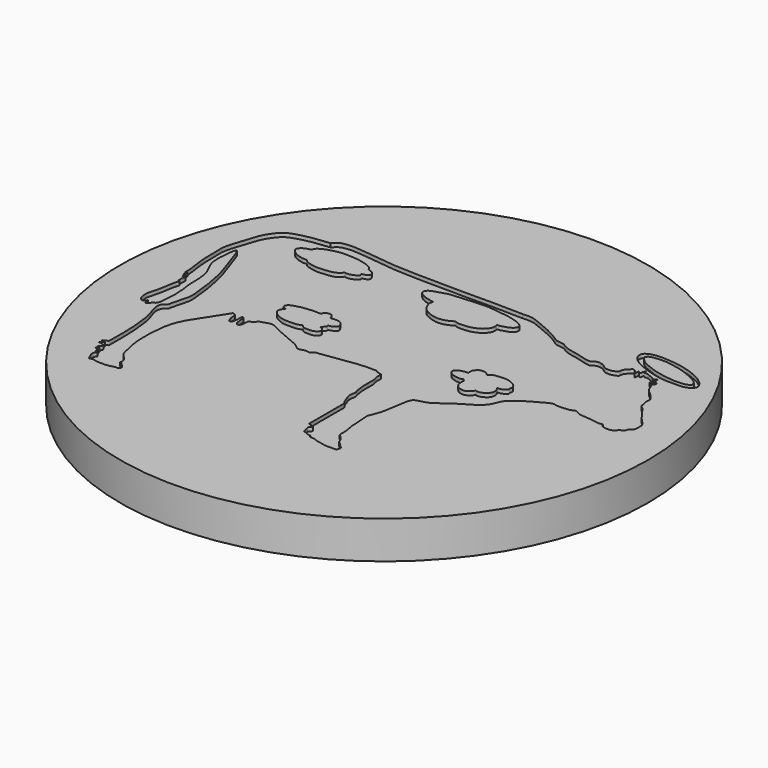
from build123d import *

# Parameters (mm, degrees)
F0_R     = 44.45
F1_DEPTH = 6.35
F3_DEPTH = 0.635


with BuildPart() as f1:
    # F0 (on Top) → F1 (new body)
    with BuildSketch(Plane.XY):
        Circle(F0_R)
    extrude(amount=F1_DEPTH)

    # F2 (on face) → F3 (cut)
    with BuildSketch(Plane.XY.offset(6.35)):
        with BuildLine():
            add(Edge.make_bspline(
                [(-26.75078623, 22.1524368972), (-26.6224431298, 22.285709196), (-26.3805275313, 22.5369159317), (-25.8716242693, 22.9678283726), (-25.2066042468, 23.1177724455), (-24.1643317162, 23.2846892412), (-22.7953954916, 23.1622963556), (-21.6395636718, 23.0872152412), (-19.8312557034, 22.8341203775), (-17.0090075275, 22.5074117402), (-14.2501567836, 22.3090590956), (-10.8820057298, 22.2936694122), (-7.8374378615, 22.1973719495), (-4.456371024, 22.2132592552), (-0.733909429, 22.2583006161), (4.9456537996, 22.2525237557), (5.6172846816, 22.1626982093)],
                knots=[0, 0, 0, 0, 0.0363374701, 0.0757852573, 0.1160920762, 0.1669487129, 0.2248217195, 0.2778380573, 0.344103086, 0.427579604, 0.5108890772, 0.6012834074, 0.6881672636, 0.7763751003, 0.8796210752, 1, 1, 1, 1], degree=3))
            add(Edge.make_bspline(
                [(-27.9328916222, -7.0819151588), (-28.0230149544, -7.3122666392), (-28.2000639202, -7.7647964154), (-28.5242334296, -8.3938183176), (-28.6763586609, -9.0075737953), (-28.962094489, -9.9914788576), (-29.0361880349, -10.9626897077), (-29.1813886252, -12.1580574928), (-29.2401455487, -13.314352501), (-29.2249480765, -14.7983832194), (-29.1066828937, -16.1420213656), (-28.8776293103, -17.3767894044), (-28.578777635, -18.5541061229), (-28.364130106, -19.5200614382), (-27.7686402305, -20.030153856), (-27.440431878, -20.5319903653), (-27.0848076912, -20.8789951556), (-27.0620114914, -21.4303279696), (-27.2608194571, -21.6014103608), (-26.8378391536, -21.6932748161), (-26.5741932569, -22.0234431303), (-26.3111419933, -22.3278000136), (-25.9761913259, -22.5601674613), (-26.1722899443, -22.9534159372), (-26.3786671512, -23.1137766986), (-26.7369501955, -23.0404346837), (-27.1236133862, -23.1962985503), (-27.964652526, -23.3675820035), (-28.7062846298, -23.3760594636), (-29.7630603654, -23.4000847572), (-30.1853368958, -23.156570864), (-30.7353659248, -23.1710524839), (-31.10303477, -23.4047584776), (-31.2930898931, -22.7181189104), (-31.6062871826, -22.2592312947), (-31.5790115008, -21.7097970262), (-31.4545340684, -21.3893932734), (-31.2382177314, -21.3633628184), (-31.2827611377, -21.2168062822), (-31.4271111945, -21.2797372837), (-31.7814897776, -21.1866918297), (-31.6201266661, -20.9630560182), (-31.5872192222, -20.8564851551), (-31.5814664559, -20.6420161433), (-31.7532035349, -20.5690503573), (-31.7935252278, -20.3595381151), (-32.0203313648, -20.5195411521), (-32.2229200506, -20.4821522703), (-32.3443702582, -20.4759542247), (-32.1661497878, -20.312618488), (-32.0292364046, -20.2916884357), (-31.8038934065, -20.077229671), (-32.0141314277, -20.0514015027), (-32.1784324543, -20.0652918101), (-32.3272774958, -20.0396699078), (-32.4901663684, -20.1151158243), (-32.3517727768, -19.9264693536), (-32.1392023817, -19.7836239382), (-32.0087382152, -19.5488097522), (-31.7731206055, -19.1439214119), (-32.1427027239, -19.0632430796), (-32.48354636, -18.9720994939), (-32.7846108755, -18.8536414493), (-33.1325936127, -18.933078138), (-32.7248642128, -18.6738564888), (-32.5658487371, -18.6379726524), (-32.4075241914, -18.5029952571), (-32.1543018947, -18.3876310927), (-32.7506293489, -18.3541004893), (-32.867886744, -18.3543784235), (-32.9708627213, -18.1130524644), (-32.6557377493, -18.2022126366), (-32.4992560296, -18.0212891695), (-32.4066523179, -17.8443986509), (-32.0551401772, -17.9704797168), (-32.1137973909, -17.2395370392), (-32.1008542253, -16.5386831901), (-32.075460991, -15.8013728458), (-32.0643527582, -14.8925221266), (-32.1366772118, -14.0020522755), (-32.1010193077, -13.1854290827), (-32.1735551146, -12.2334744087), (-32.2649393375, -11.5365375345), (-32.3662781009, -10.513202111), (-32.4667830368, -9.409238614), (-32.8241345608, -8.0793240396), (-33.2172846897, -7.139222728), (-33.3774752111, -6.1771830747), (-33.3449456443, -5.7611366882), (-33.1125894596, -5.1699699627), (-32.4395081672, -4.783802441), (-32.4820705586, -4.4678678652), (-32.2074940303, -3.5468864195), (-31.9506902868, -2.5476479139), (-31.6563195169, -1.5101600794), (-31.645938625, -0.4404008982), (-31.7412131444, 0.4949912018), (-32.0405902277, 3.1041069273), (-32.416603865, 5.0637019768), (-32.88933973, 7.0535050142), (-33.1225517756, 7.5301311382), (-34.0930926756, 10.5667852188), (-35.0159674138, 13.2341694183), (-35.3328234846, 12.4121712026), (-35.4254537194, 11.5326709609), (-35.5668812388, 10.4312209821), (-35.5845495888, 8.7654630252), (-35.3725422909, 7.7215034944), (-34.7435527085, 6.4317802551), (-34.3341514029, 5.6965917587), (-34.0850318723, 4.6845745867), (-33.94272048, 3.5781193745), (-33.9325220674, 2.4701464309), (-33.9454296205, 1.3491529714), (-33.7470689553, 0.3862914073), (-33.6359720646, -0.6338827257), (-33.5568605668, -2.3299932888), (-33.681530671, -3.5742562578), (-33.764510483, -4.9812817195), (-33.9541461856, -5.2700817058), (-34.1335283235, -5.594683141), (-34.4721677094, -5.4710934402), (-34.5949571869, -5.893709415), (-34.7160123681, -6.1645294643), (-35.1531275888, -6.395779821), (-35.2521965041, -6.0447084103), (-35.3999669612, -5.7229601915), (-35.3286684135, -5.2947963381), (-35.5544969037, -6.0159481623), (-35.9781874449, -6.0170422346), (-36.3747736933, -5.8055854255), (-36.5769666672, -5.4384989919), (-36.6669832328, -4.7282179478), (-36.7161367524, -3.9279225809), (-36.3433509098, -2.8578664753), (-36.0726723024, -1.6297213235), (-35.9002863021, -0.5731594868), (-35.7840625799, 0.5798988216), (-35.3687554948, 1.4563801233), (-35.7458988138, 1.2685525418), (-35.7310435687, 1.6617226368), (-35.7830747566, 1.8968035736), (-35.5285576459, 3.1697458821), (-36.1012318337, 2.4615253143), (-36.0723954533, 2.9218194746), (-35.931438634, 3.4110333315), (-36.3960952834, 2.8155603207), (-36.2895150574, 3.5120145482), (-36.1808913897, 4.0981736577), (-36.5520143588, 3.3551063547), (-36.4755929732, 4.4551528052), (-36.6313581432, 5.5220460293), (-36.7689434605, 6.637441778), (-37.0013861825, 8.2153914606), (-36.9231262997, 10.2171210518), (-37.1179425509, 11.9955786353), (-36.7676392509, 13.6084207419), (-36.1056626291, 15.5444386489), (-35.4407010331, 18.0230833806), (-34.093110584, 20.0282553609), (-33.0307679017, 20.9370335819), (-30.9356040955, 21.5784842968), (-28.9010964789, 21.9280488017), (-27.4692816012, 22.0774608289), (-26.75078623, 22.1524368972)],
                knots=[0, 0, 0, 0, 0.0066099956, 0.0129854596, 0.0191032689, 0.0267924702, 0.0344730216, 0.0428203628, 0.0511510828, 0.0604913712, 0.0694570473, 0.0780633757, 0.0865757702, 0.0941045445, 0.1007597762, 0.1066674397, 0.1120686344, 0.1175365558, 0.1205532764, 0.1248781063, 0.1299974637, 0.1349490989, 0.139460147, 0.1441015582, 0.1479207796, 0.1522933659, 0.1572567164, 0.1642575929, 0.1711559104, 0.1788887115, 0.1842486626, 0.1898247001, 0.1941001563, 0.1999029069, 0.205844896, 0.211418873, 0.2157437142, 0.2188476266, 0.2210673188, 0.2239595068, 0.2280392199, 0.2314061953, 0.2341553086, 0.2374448266, 0.2406291177, 0.2435645887, 0.2470967091, 0.2507222803, 0.2526662194, 0.2558505105, 0.2591197907, 0.2626838664, 0.2654329987, 0.2687124269, 0.2718043212, 0.274272757, 0.277208228, 0.2812178044, 0.285369202, 0.2900106171, 0.2940146359, 0.2987394575, 0.3033077428, 0.3065872045, 0.3109339428, 0.3143645735, 0.3179597787, 0.3207259241, 0.3258769051, 0.3288263957, 0.3317758914, 0.33540893, 0.3391000998, 0.342284391, 0.3459173994, 0.3517183151, 0.3584569303, 0.3650170685, 0.3723501229, 0.3796049813, 0.3866045371, 0.3940264882, 0.4005146481, 0.4081865158, 0.4163986478, 0.4253588687, 0.4332989104, 0.4406936788, 0.4456113007, 0.451639863, 0.4580804412, 0.4620732971, 0.4694351498, 0.4774570625, 0.4854427687, 0.4931755739, 0.500683344, 0.5129393627, 0.5244648757, 0.5349372668, 0.5406036519, 0.5547346481, 0.5663405985, 0.571185955, 0.5785842151, 0.5868264768, 0.5966410955, 0.6047420531, 0.6137796725, 0.6208959858, 0.6286055248, 0.6367570389, 0.6448767328, 0.6529964259, 0.6605067249, 0.668330556, 0.6782338339, 0.6872491281, 0.6960919324, 0.7006107531, 0.7048491747, 0.7087610871, 0.7133627031, 0.7178020675, 0.7224892228, 0.7264820701, 0.7314425061, 0.7348819283, 0.7402418694, 0.744990204, 0.7499853753, 0.7548307155, 0.7612430556, 0.768121892, 0.7762707698, 0.7849082848, 0.7928672207, 0.8015606983, 0.8078986376, 0.8110829176, 0.8150301293, 0.8197172668, 0.8268395149, 0.831533561, 0.8356546925, 0.8399751121, 0.8443646782, 0.8497246249, 0.8544186787, 0.8588082511, 0.8650544779, 0.8735973861, 0.8816454488, 0.8913148985, 0.9022692508, 0.9125079479, 0.9222275493, 0.9331943724, 0.9456569936, 0.9574169571, 0.9663890671, 0.9775439705, 0.9887313971, 1, 1, 1, 1], degree=3))
            Line((-27.9328916222, -7.0819151588), (-24.5950780809, -1.8700635992))
            add(Edge.make_bspline(
                [(2.0201816224, -5.9220227413), (2.0146719422, -5.7044925996), (2.0038151964, -5.2758525695), (2.0886378385, -4.641696165), (1.7024259378, -3.885999175), (1.9531840344, -2.7933060423), (1.4372168229, -2.8472457173), (0.8942094022, -2.6320343057), (0.7297338348, -2.3519033197), (-0.3887278231, -2.4778904777), (-0.8412432821, -2.3999873181), (-1.4763446002, -2.463217694), (-1.8993522225, -2.5128656099), (-2.6500703906, -2.5200219647), (-3.3386682659, -2.6938208597), (-4.76469726, -2.8234341345), (-6.3154013713, -3.1245247262), (-7.380248347, -3.1608536381), (-8.4993997252, -3.4520845046), (-8.8883277106, -3.3394001537), (-9.15684534, -3.5667697985), (-9.3118579998, -3.8979433174), (-9.9035613466, -3.8532090994), (-10.2463092317, -3.7480326912), (-10.7954044652, -3.9840596233), (-11.3895096661, -4.1021842922), (-11.9041262713, -3.5950768423), (-12.3734758616, -3.275270885), (-12.9943317558, -2.982561191), (-14.0695612937, -2.4787994363), (-15.0951670234, -2.0485566762), (-16.755907237, -1.4561504938), (-17.7734182044, -0.7097439921), (-18.5444946037, -0.6461127854), (-19.153195211, -0.8423846145), (-19.5807587626, -1.0392655579), (-20.2455141024, -1.1445221618), (-20.3395204981, -1.4342343063), (-20.5622715456, -1.6767603553), (-20.8945666352, -1.8107127986), (-21.0919929708, -2.0156631151), (-21.3247618814, -2.0090878291), (-21.2820536141, -2.354643624), (-21.3235134529, -2.6808729556), (-21.3559466446, -3.1196819229), (-21.4326684174, -3.3813329954), (-21.6181834504, -3.5632877728), (-21.9817845119, -3.5828926346), (-22.18585359, -3.2632168693), (-22.2451094316, -2.7721511994), (-22.3498589409, -2.2310667306), (-22.3525350721, -1.4591939887), (-22.558083485, -1.5378610414), (-22.689423355, -1.490304705), (-22.7096722855, -1.6638715796), (-22.7203512176, -1.9487798348), (-22.7162756535, -2.4625894099), (-22.7759922892, -2.816264318), (-22.8333058984, -3.1378683136), (-22.911792767, -3.487736638), (-23.3202479341, -3.5159124084), (-23.4513534784, -3.2690342225), (-23.657126888, -2.7508463764), (-23.7483242635, -2.2003007985), (-23.6582129912, -1.6691280292), (-23.9631568487, -1.5531849826), (-24.1273252113, -1.4383951649), (-24.350467741, -1.3990863197), (-24.5000602152, -1.6871144404), (-24.5950780809, -1.8700635992)],
                knots=[0, 0, 0, 0, 0.0168199292, 0.0331434297, 0.0527228918, 0.0727174829, 0.085262908, 0.1009925199, 0.1123104912, 0.1335937302, 0.1487956994, 0.1648638822, 0.1788712861, 0.1965170567, 0.2142765841, 0.2393135555, 0.2657887909, 0.2879563769, 0.3100071795, 0.3226513102, 0.3341937602, 0.3462181764, 0.3614201456, 0.374103138, 0.3899181978, 0.4057082647, 0.4228324315, 0.4386074584, 0.4558674548, 0.4784213203, 0.5009975035, 0.5288351545, 0.5523054759, 0.5700896011, 0.586417638, 0.6012679523, 0.6177036515, 0.6285413395, 0.6402981494, 0.6528887734, 0.6639152049, 0.6724918762, 0.6835338803, 0.6961349854, 0.7099658672, 0.7207780989, 0.7310166981, 0.7427347096, 0.7548521472, 0.7693523382, 0.7859986487, 0.8028234633, 0.8104610828, 0.8173552992, 0.8247807584, 0.8362757858, 0.8513473844, 0.8639900942, 0.8760323882, 0.8878403485, 0.8995971344, 0.9100314376, 0.925597527, 0.9417655876, 0.9561265604, 0.9669552901, 0.9764305494, 0.9850292008, 1, 1, 1, 1], degree=3))
            add(Edge.make_bspline(
                [(3.1747252215, -12.7973137423), (3.1989783319, -12.6282837831), (3.2470609582, -12.293176071), (2.8449408861, -12.0020788323), (2.6011251276, -11.1275374567), (2.3592621247, -10.6535882974), (2.2032439989, -9.7990125813), (2.4956457559, -9.0419695086), (2.2135212721, -8.5559059796), (2.0874583419, -7.5629044685), (2.003280115, -6.7989022767), (2.0144704947, -6.2183259556), (2.0201816224, -5.9220227413)],
                knots=[0, 0, 0, 0, 0.0816108876, 0.1617963937, 0.273490057, 0.3633051935, 0.472670338, 0.5768548459, 0.6635794588, 0.781834045, 0.8886567168, 1, 1, 1, 1], degree=3))
            Line((3.1747252215, -12.7973137423), (3.1747252215, -19.8022369295))
            add(Edge.make_bspline(
                [(5.4422146641, -22.2721826285), (5.3152530086, -22.2883538459), (5.0451058038, -22.3227627321), (4.6274780837, -22.0534553421), (4.2808965638, -21.9500820491), (4.0378940423, -21.98765402), (3.9116759293, -21.4531773526), (3.8554600094, -21.0944164811), (3.627525089, -20.6976762194), (3.8544255549, -20.4824046775), (4.1725815863, -20.156956031), (4.0245691951, -20.0305319618), (3.7552580499, -20.1207942834), (3.6563528665, -19.8996588381), (3.4371659835, -19.8055058993), (3.2644175983, -19.8033541404), (3.1747252215, -19.8022369295)],
                knots=[0, 0, 0, 0, 0.0800259591, 0.1702780976, 0.2475615746, 0.3033069419, 0.3921348004, 0.4754936408, 0.5554640657, 0.625186059, 0.7072909588, 0.7509568443, 0.8145550373, 0.87231942, 0.9337071969, 1, 1, 1, 1], degree=3))
            Line((5.4422146641, -22.2721826285), (5.6244242005, -22.6568449289))
            Line((5.6244242005, -22.6568449289), (6.4342417754, -22.6568449289))
            add(Edge.make_bspline(
                [(10.6048034504, -23.2844538987), (10.417509027, -23.2852914567), (10.0059820133, -23.2871317557), (9.1179890023, -23.272652524), (8.6422126223, -23.3198261076), (7.861816621, -23.1058272147), (7.0178779398, -22.9592835335), (6.6186129523, -22.7523855496), (6.4342417754, -22.6568449289)],
                knots=[0, 0, 0, 0, 0.1548403056, 0.3402181838, 0.47871159, 0.6548782397, 0.8406308915, 1, 1, 1, 1], degree=3))
            Line((10.6048034504, -23.2844538987), (10.7870129868, -22.5353725255))
            Line((10.7870129868, -22.5353725255), (9.4710588455, -21.3004015386))
            add(Edge.make_bspline(
                [(7.9728951678, -16.3605120033), (7.9650046248, -16.4732085207), (7.9461564126, -16.742407724), (8.1335062525, -17.4185263836), (8.2423001208, -18.2004641568), (8.3013167718, -18.7775633597), (8.2202128918, -19.7800623671), (8.5528584215, -19.8548932701), (8.9831791498, -20.3461781059), (9.3925464914, -20.9504699482), (9.4485205007, -21.1999475537), (9.4710588455, -21.3004015386)],
                knots=[0, 0, 0, 0, 0.0883435984, 0.2110271624, 0.3401801935, 0.4580866349, 0.5962809008, 0.6707969593, 0.7882710479, 0.9147457868, 1, 1, 1, 1], degree=3))
            Line((7.9728951678, -16.3605120033), (7.7546117827, -13.244134374))
            add(Edge.make_bspline(
                [(5.6172846816, 22.1626982093), (5.9355958554, 22.1774112196), (7.1987582171, 22.3190930362), (8.9813238253, 21.4875628199), (10.7574487786, 20.8028703403), (12.8408001777, 19.7638746998), (13.7494983248, 18.9384935763), (15.1200582409, 18.9672019079), (15.5829954688, 18.5496016115), (16.7906906784, 17.9934520586), (18.3993078024, 17.8404157708), (20.8159346048, 16.961411365), (21.2078131595, 17.4569465099), (21.8125173523, 17.7478036812), (22.6495819726, 17.6160634639), (23.1761715553, 17.3057412256), (23.612839524, 16.8641484868), (24.5302046437, 16.8014618626), (25.2515601856, 17.0088471571), (25.8049777844, 17.2856604502), (25.704052205, 17.7433148785), (26.0199125377, 18.3290567125), (26.529533286, 18.749314607), (26.8153926902, 19.0981959143), (27.4354184876, 18.6491206694), (27.7028288757, 17.7548173001), (27.6595863759, 19.2962721976), (27.9440924716, 18.4931599603), (28.3499901347, 18.8794283652), (28.167575554, 19.0188600036), (28.2893998521, 19.2811837355), (28.602591164, 19.7577871052), (28.3781078883, 18.9349894915), (28.9600602833, 19.2094763007), (29.5519324952, 18.9109279837), (30.350105001, 18.6156167176), (30.5617992998, 18.2378309226), (30.855699372, 18.5477540561), (31.1368541862, 18.7185202786), (31.2902742786, 18.2951662708), (30.8905707428, 17.824581934), (30.7736574417, 17.519418348), (30.9341070658, 17.1450721235), (31.0280776285, 17.6476098054), (31.2945941067, 17.691429274), (31.608682685, 17.8954864715), (31.7568433595, 17.6158706064), (31.787263013, 17.2802753287), (31.0169459404, 17.0606253331), (31.671256934, 16.7641264946), (31.7645918126, 16.1189295601), (32.3476216042, 15.2340671827), (32.7951399254, 15.0558222347), (33.8824091966, 13.8372948901), (33.9186327012, 13.4429447834), (33.8197318989, 12.7060718285), (34.1735920352, 11.8565797643), (33.9727632408, 11.5174487483), (34.816810295, 10.9848531535), (35.1173056192, 10.3906013374), (35.8231506194, 9.5776812664), (36.3043132065, 8.7259073552), (37.2230528936, 7.9223047098), (37.7201168578, 7.1794584805), (37.614135484, 6.88732399), (37.7879880441, 5.7557507954), (37.2112266094, 5.2136057951), (36.9663592196, 5.4006132141), (36.9216752242, 4.5634577199), (36.4881932756, 4.4073189321), (35.9849401891, 4.3962459538), (36.1100483351, 4.0211223659), (35.392518302, 3.5673784614), (34.4834966547, 3.5196164192), (34.108177991, 3.6610946354), (33.6568376921, 3.7716770973), (33.4700536712, 4.3917195138), (32.947563421, 4.026877908), (32.1228165191, 4.2702870225), (30.948417921, 4.3825424193), (30.3509528436, 4.4322686835), (29.1092660129, 4.4859535795), (28.2224674592, 5.1988794443), (27.6513952047, 4.6462990471), (26.4809317324, 4.6324083289), (25.3810790693, 4.5534025941), (24.6880479037, 4.8411549013), (23.5514596629, 4.2732258149), (22.2801188265, 3.5529426931), (21.1392256521, 2.8987940169), (19.8018233066, 1.7466039139), (18.9522778843, 1.2125239013), (18.4658609766, -0.5993278778), (17.3533753176, -1.6406898794), (16.0025534063, -2.4858956105), (14.3721627491, -3.405628092), (13.9060409656, -3.7918428157), (12.7130537163, -4.6424578548), (12.0491751939, -5.2079302815), (10.6080203344, -5.6658253031), (9.3813179633, -5.8753511095), (9.1640636898, -7.5925918021), (8.8340374479, -9.0619818516), (8.6700236348, -10.7531110892), (8.3014070987, -11.8941365509), (7.9416163343, -12.7824337519), (7.7546117827, -13.244134374)],
                knots=[0, 0, 0, 0, 0.0132357372, 0.028649312, 0.0440668863, 0.060599933, 0.0727375183, 0.0848189435, 0.0933181618, 0.105342654, 0.1201155409, 0.13696483, 0.1446690911, 0.1533262487, 0.1632601772, 0.1717593725, 0.1801481898, 0.190366342, 0.2001172734, 0.2080140737, 0.2148316752, 0.2236263992, 0.2326558435, 0.2391035636, 0.2484028448, 0.2557776604, 0.2654192306, 0.2718040243, 0.27825173, 0.2825214988, 0.2885598522, 0.294635604, 0.3018387988, 0.3086300432, 0.3177919869, 0.3279472562, 0.3340230195, 0.3404707107, 0.3460426086, 0.3520809736, 0.360580192, 0.3670586622, 0.3721362919, 0.3783551008, 0.3841530657, 0.3901914133, 0.3955603572, 0.4014821546, 0.4093789315, 0.4163731113, 0.4254584639, 0.4362628444, 0.4443704063, 0.4579296088, 0.4648245467, 0.4741238352, 0.484434191, 0.4903155717, 0.5004148329, 0.5097141261, 0.520821722, 0.5317745394, 0.5440581646, 0.5538536086, 0.5597349893, 0.5712555315, 0.580062431, 0.5842211885, 0.5930763575, 0.6004511831, 0.6073461083, 0.6127679578, 0.622315452, 0.632810308, 0.639705265, 0.6468861022, 0.6544789458, 0.6617694525, 0.6719876044, 0.683796057, 0.6924660005, 0.7045474222, 0.71544931, 0.7241064676, 0.7359149108, 0.7474300115, 0.7564594611, 0.7683920942, 0.7817362387, 0.7945098101, 0.8088377395, 0.8197138727, 0.8341700246, 0.8475697763, 0.8617075174, 0.8763551076, 0.8852102788, 0.8980510806, 0.9086311716, 0.9219296227, 0.9334064431, 0.9468440232, 0.9607496933, 0.9748252791, 0.9868305975, 1, 1, 1, 1], degree=3))
        make_face()
        with BuildLine():
            add(Edge.make_bspline(
                [(-19.2805100232, 5.2201403305), (-19.0487716136, 5.2868388076), (-18.5516320002, 5.4454565681), (-17.6452203627, 5.5912309901), (-16.8642425514, 5.6417064291), (-16.0458047033, 5.7279637606), (-15.0258485992, 5.5696789105), (-15.1081892826, 5.8393032074), (-15.0703507672, 5.9950007989), (-14.9411685975, 6.1292962296), (-14.7389318027, 6.2759895974), (-14.4965368572, 6.3277664614), (-14.2263507295, 6.379066071), (-13.9627879111, 6.3231140206), (-13.7739734761, 6.1999824546), (-13.5990072665, 5.989684377), (-13.4988609663, 5.7623565451), (-13.4666040602, 5.4601617229), (-13.0669352621, 5.519180324), (-12.4905354429, 5.5630267687), (-11.8859186366, 5.4983629565), (-11.517354436, 5.2638185627), (-11.277711844, 4.9832198669), (-11.316438814, 4.7643280746), (-11.1238746059, 4.6345306136), (-11.0564212027, 4.4528708166), (-11.0976952508, 4.1943405608), (-11.372062684, 3.9381798241), (-11.66607229, 3.8334770205), (-11.9141959019, 3.6549288426), (-12.4363462662, 3.6524427827), (-12.2873020286, 3.478714158), (-12.3303351757, 3.2737882156), (-12.4556365062, 3.0606939634), (-13.0899333133, 2.6169204556), (-12.6454554987, 2.6275982775), (-12.337144007, 2.4105449933), (-12.1645925164, 2.1519988791), (-12.106564514, 1.842834825), (-12.2016230849, 1.5627717964), (-12.6842465341, 1.2388270518), (-13.115011702, 1.0995587385), (-13.8088725495, 1.1491895802), (-14.1587769847, 1.1088204082), (-14.703175623, 1.2351696423), (-14.9109827353, 1.6543101279), (-15.2096952708, 1.5146736001), (-15.7315643229, 1.3097567851), (-16.1820763168, 1.2786615504), (-16.9001732854, 1.2985150482), (-17.6567777993, 1.2504091542), (-18.6165941498, 1.4462115432), (-19.5625721984, 1.9319258509), (-20.0913255919, 2.4693231572), (-20.1861951658, 2.9964193863), (-20.0512591767, 3.4473744527), (-19.5740591118, 3.8248779638), (-19.8730428619, 3.8900012882), (-20.2203578041, 4.0547972304), (-20.368513091, 4.4610896921), (-20.2100948236, 4.744326466), (-19.8668027858, 5.0624789402), (-19.4887702603, 5.1601992932), (-19.2805100232, 5.2201403305)],
                knots=[0, 0, 0, 0, 0.0225632622, 0.0473231561, 0.0700210443, 0.0948449729, 0.118723611, 0.1288855851, 0.1391392664, 0.1501494337, 0.1629739426, 0.1758596564, 0.1894199236, 0.20262767, 0.214821407, 0.2281680434, 0.2413474772, 0.2539505144, 0.2686804853, 0.2889577989, 0.309037258, 0.3261080372, 0.3412102057, 0.3525017215, 0.3642200785, 0.3753026211, 0.3880806274, 0.4036341169, 0.4179168783, 0.4329044755, 0.4492878073, 0.4583993865, 0.4696225302, 0.483629615, 0.5030995795, 0.5155538172, 0.5318627109, 0.5462009372, 0.5602316218, 0.5738048913, 0.5929681514, 0.6108883618, 0.6319774029, 0.6478167027, 0.6665201664, 0.6825837451, 0.6957914898, 0.7151593347, 0.7327603796, 0.7543834274, 0.7770367009, 0.8025927056, 0.8294099035, 0.8514119617, 0.8694828042, 0.8876030142, 0.9051561897, 0.9159917458, 0.9323006281, 0.948309008, 0.962421373, 0.9797226953, 1, 1, 1, 1], degree=3))
        make_face(mode=Mode.SUBTRACT)
        with BuildLine():
            add(Edge.make_bspline(
                [(-27.5301411748, 19.1654618829), (-27.4510155876, 19.2410788773), (-27.4734938165, 19.5269149877), (-26.9478270594, 19.9778947423), (-26.2451161059, 20.3209108723), (-25.4590632263, 20.5729636007), (-24.1619999389, 20.9052601873), (-23.0782607867, 20.900619165), (-21.7341911088, 20.8835620205), (-20.4056684832, 20.6831639495), (-19.5585536067, 20.4364579359), (-18.6881233657, 20.1113024024), (-18.2528132194, 19.7036065151), (-18.1656912525, 19.3014324773), (-17.4230002039, 19.2454909029), (-17.1966994561, 18.966784322), (-16.9955704735, 18.5699258705), (-17.048428947, 18.2383416505), (-17.4432736247, 17.9153389375), (-18.2704466319, 17.8203511204), (-17.8786401123, 17.6040895762), (-18.0947680938, 17.2651953255), (-18.4796336482, 17.022667765), (-19.1951585931, 16.7556016327), (-19.8791950804, 16.6731709632), (-20.1177744963, 16.8634475583), (-20.2646628449, 16.4303562162), (-20.699656343, 16.128269039), (-21.4282535768, 15.8097413524), (-22.6328143664, 15.6932112929), (-23.917693462, 15.5930380125), (-25.0380002936, 15.819914342), (-25.9911158552, 16.0879358337), (-26.2223356853, 16.5879170886), (-26.465591907, 16.4558167043), (-27.0348413277, 16.5032617229), (-27.9575658387, 16.7174659921), (-28.6585985479, 17.1299938597), (-29.225214042, 17.6478535089), (-29.2930906309, 18.2117269031), (-28.8291734331, 18.6730061915), (-28.23710255, 19.0202276277), (-27.6426494692, 19.05794244), (-27.5301411748, 19.1654618829)],
                knots=[0, 0, 0, 0, 0.0174676727, 0.0417292086, 0.0684730356, 0.0960775821, 0.1306461165, 0.1623315236, 0.1973676805, 0.2322607165, 0.260869875, 0.2897518249, 0.3123661117, 0.3301407384, 0.3545520829, 0.372598132, 0.3921577117, 0.4084825395, 0.4305369874, 0.4540781988, 0.4678056952, 0.4846811684, 0.5053050245, 0.5321486287, 0.5569465679, 0.5703869506, 0.5881615377, 0.6101259408, 0.6367307127, 0.6699871926, 0.7043928538, 0.7370425947, 0.7666163185, 0.7863028958, 0.7995925231, 0.8220495721, 0.8516505532, 0.8792286896, 0.9050405676, 0.9260241253, 0.9493509369, 0.9751627997, 1, 1, 1, 1], degree=3))
        make_face(mode=Mode.SUBTRACT)
        with BuildLine():
            add(Edge.make_bspline(
                [(-5.8809090406, 20.4394254833), (-5.5299946346, 20.5312682809), (-4.6622786282, 20.6500519079), (-2.9369668598, 20.7317477225), (-1.705975539, 20.8666363957), (-0.2608855598, 20.8910134294), (0.8445255244, 20.9524027999), (2.0370563833, 20.7818431092), (3.5557991664, 20.6524020497), (5.0881490321, 20.3689820586), (6.2555245228, 20.0050142678), (7.0959211026, 19.5708784867), (7.5315796024, 19.1619144897), (7.3918704747, 18.7252952938), (7.1991992316, 18.3926770995), (6.8482076971, 18.1652417098), (6.4351129341, 17.9437189031), (5.8168880188, 17.8267702999), (5.3780657469, 17.5918598322), (4.855264128, 17.6994791808), (4.9705168168, 17.4342234979), (5.0074609829, 17.020524822), (4.8738997917, 16.4837479394), (4.5189881912, 15.9834290961), (4.0250315273, 15.4996578464), (3.4473690916, 15.2446903261), (2.6680688809, 14.9137914422), (1.8704119411, 14.8387379053), (1.100730422, 14.7673420118), (0.4704095015, 14.8136139095), (0.1496264449, 14.9260757664), (-0.0077536239, 15.0433148722), (-0.3689004107, 14.7695929328), (-0.8817747298, 14.5325268815), (-1.6214452528, 14.2926124078), (-2.6615710578, 14.1845160872), (-3.8802555775, 14.5348992949), (-4.7982349954, 14.973883979), (-5.4650378729, 15.6534316816), (-5.8034150126, 16.5226180088), (-5.9399077271, 16.9637547873), (-5.7500368695, 17.5517733682), (-5.9424065599, 17.5316410819), (-6.5441075045, 17.6845224326), (-7.2248157476, 17.8029627593), (-8.2484987231, 18.3155462592), (-8.6370801587, 18.79171992), (-8.5980395058, 19.1808209822), (-8.3102697433, 19.6414242307), (-7.5363314746, 19.9305460902), (-6.7060626351, 20.1525016262), (-6.1781404417, 20.3616328281), (-5.8809090406, 20.4394254833)],
                knots=[0, 0, 0, 0, 0.0262397051, 0.0573880797, 0.0842401481, 0.1124522363, 0.1374117917, 0.1631922549, 0.1926505696, 0.2224357074, 0.2487802673, 0.2718363969, 0.2889270184, 0.3038843361, 0.3185593241, 0.3335983001, 0.3499001174, 0.3685771699, 0.3859021129, 0.400755441, 0.4105692078, 0.4260722696, 0.4435882653, 0.4621765933, 0.4816628996, 0.5005239921, 0.5222026873, 0.5435422435, 0.5645603822, 0.5834214652, 0.5969058185, 0.606228347, 0.6211433429, 0.6393100287, 0.6600584372, 0.6842623289, 0.7109310966, 0.7348061268, 0.7578001822, 0.7802947609, 0.7970879769, 0.81383739, 0.821622557, 0.8398615684, 0.8604854781, 0.885758037, 0.9036545091, 0.917507394, 0.9342957654, 0.9556140279, 0.9777744539, 1, 1, 1, 1], degree=3))
        make_face(mode=Mode.SUBTRACT)
        with BuildLine():
            add(Edge.make_bspline(
                [(12.6994457096, 5.7392981835), (12.7927591096, 5.7352441529), (13.151381882, 6.1492477385), (13.894777351, 6.2551457338), (14.6738137604, 6.369415459), (15.553666145, 6.4052693445), (16.3809664592, 6.1474135545), (17.0459647842, 5.8199922125), (17.5178640056, 5.3663813555), (17.6460743163, 4.8766767008), (17.5597772449, 4.6121241904), (17.462947108, 4.478088826), (17.5681659963, 4.4927487855), (17.5976510968, 4.4026093596), (17.655467542, 4.2095830496), (17.3704220571, 3.9937349765), (17.0332766127, 3.7770803866), (16.6877721086, 3.6345843552), (16.1124341016, 3.6561479095), (16.254015083, 3.4925704141), (16.3686625176, 3.2736027358), (16.4983144967, 2.9922857851), (16.5258401718, 2.6382739595), (16.4308820542, 2.2000413355), (16.1266047989, 1.7008955036), (15.5428533739, 1.3887430935), (15.0183378125, 1.1656963316), (14.4122641329, 1.2331827695), (14.3714763457, 1.376820951), (14.3037497994, 1.1195163904), (14.1557891057, 0.9136599263), (13.8555968338, 0.6072577246), (13.587093912, 0.4943402637), (13.3196003773, 0.3263213554), (12.9494272336, 0.3207858754), (12.5305293923, 0.3625496679), (12.0634564167, 0.5721824038), (11.6589099911, 0.9828985938), (11.466258522, 1.401325687), (11.394478637, 1.8338091644), (11.4267150427, 2.1509114047), (11.4435181655, 2.4919694363), (11.3872744581, 2.5526041886), (11.2142309162, 2.6233273731), (11.1644944288, 2.8616131134), (10.8736962075, 2.679082953), (10.4966669993, 2.6690238407), (9.7703091989, 2.7070217339), (9.0323685281, 3.0020390603), (8.5273166241, 3.4311465894), (8.5238976722, 3.9312425482), (8.861010769, 4.3053624296), (9.3708586629, 4.4905183615), (9.8757555952, 4.5984789083), (10.2154491502, 4.646721805), (10.5706529898, 4.562845763), (10.4159701671, 4.8450127933), (10.4488124595, 5.1399834749), (10.5173110121, 5.547841664), (10.8243752667, 5.8802119107), (11.2032168455, 6.2107358495), (11.8665809417, 6.2538920576), (12.1440006136, 6.152899462), (12.5632729599, 5.9423221834), (12.6392990824, 5.741911273), (12.6994457096, 5.7392981835)],
                knots=[0, 0, 0, 0, 0.0187270234, 0.041241508, 0.0640296092, 0.0879323142, 0.1116711301, 0.1337156546, 0.1541434835, 0.171788524, 0.1853537979, 0.1937995636, 0.2000139226, 0.2074040541, 0.2180240321, 0.2325819393, 0.2488633034, 0.2654605513, 0.2825707753, 0.2910165411, 0.3041291619, 0.3183331981, 0.3333521336, 0.3503384303, 0.3696120942, 0.3901293626, 0.4102006441, 0.4291475236, 0.4354512909, 0.446485816, 0.4602572187, 0.4767381281, 0.4906256235, 0.5046582127, 0.5199847563, 0.53654349, 0.5547372696, 0.5739955971, 0.5913626742, 0.607964719, 0.6229641975, 0.6373188722, 0.6441621966, 0.6548546916, 0.6655471832, 0.6784301069, 0.6943813979, 0.7160757892, 0.739183288, 0.7592843346, 0.7760516362, 0.7935388761, 0.812424193, 0.8307619045, 0.8463901112, 0.859008575, 0.8705888944, 0.8849435744, 0.9011067606, 0.9180391021, 0.9362036667, 0.9563397201, 0.9706422204, 0.987929201, 1, 1, 1, 1], degree=3))
        make_face(mode=Mode.SUBTRACT)
        with BuildLine():
            add(Edge.make_bspline(
                [(24.8804520816, 22.607114166), (24.8816477979, 22.6776580159), (24.8879985498, 22.8370260147), (25.0028339033, 23.2808558428), (25.6372261365, 23.6724610676), (26.3769320559, 23.8702673954), (27.3766940131, 24.0145416207), (28.7602729823, 23.9115516671), (29.511232708, 23.8845295531), (30.358572573, 23.7466837996), (31.1966393942, 23.6034055877), (32.1465137264, 23.3844040147), (33.0188248248, 23.0965586714), (34.0170779607, 22.6844814842), (34.8309999366, 22.3121393182), (35.3922408875, 21.8842017295), (35.9765256321, 21.4266493389), (36.2693390492, 21.0206461598), (36.4480326179, 20.7088852529), (36.5456309864, 20.4128509411), (36.5198120449, 20.0744174072), (36.2864687078, 19.7216172366), (35.9525726223, 19.4090830695), (34.903152081, 19.0874459593), (34.2683187578, 19.0869866702), (33.4162098108, 19.0615012063), (32.7912768692, 19.0659043275), (31.9354641618, 19.0733793098), (30.8051984651, 19.2662103815), (29.9781312609, 19.44540978), (28.7841727662, 19.7805405749), (27.7466141109, 20.1234155877), (26.5205167027, 20.718954256), (25.6980589833, 21.2232272799), (25.0641389316, 21.8985992713), (24.8800476869, 22.3496611429), (24.8792114839, 22.5339224511), (24.8804520816, 22.607114166)],
                knots=[0, 0, 0, 0, 0.0156998234, 0.0373077663, 0.0653568153, 0.0944982749, 0.128291115, 0.1674357704, 0.1966348348, 0.2269169614, 0.2579074233, 0.290593637, 0.3227530528, 0.357453288, 0.3889046653, 0.4169536754, 0.4455569465, 0.4690542857, 0.4887840397, 0.5070866989, 0.5260910856, 0.5470892476, 0.5696894351, 0.6039205102, 0.63145771, 0.6615842403, 0.6880315416, 0.7187882651, 0.7543119025, 0.7854217467, 0.8219557661, 0.85747341, 0.8960502237, 0.9293120866, 0.9609879092, 0.9837108834, 1, 1, 1, 1], degree=3))
        make_face()
        with BuildLine():
            add(Edge.make_bspline(
                [(25.9700082242, 22.896528244), (26.0487027023, 22.9887824807), (26.2599106599, 23.1008265454), (26.7118536701, 23.2144491206), (27.323968927, 23.3021203239), (28.0287853993, 23.3180543639), (28.8715336495, 23.3687764845), (30.0134405833, 23.1172007901), (30.8979385733, 23.0065879138), (31.8996256381, 22.7322723275), (32.7477937374, 22.45889254), (33.5352724115, 22.0718690902), (34.3176668005, 21.7592969584), (34.9060369532, 21.4027382175), (35.4128470094, 20.9861542443), (35.6045911798, 20.6061857706), (35.5996343476, 20.4630111771), (35.4853074447, 20.1710299672), (35.2147155477, 20.0202520743), (34.6372067302, 19.8436530127), (34.1276654785, 19.7950639595), (33.3834126306, 19.7480813261), (32.6957803643, 19.7945569817), (31.9815862308, 19.8643361764), (31.1563381813, 19.9684060316), (30.0666036657, 20.226777302), (29.2272206273, 20.4174254263), (28.3506675767, 20.7768448724), (27.5758966412, 21.0534713774), (26.8033469257, 21.4423041048), (26.3093370651, 21.8632590051), (25.868882341, 22.3137579291), (25.7792673233, 22.551029266), (25.8881082503, 22.800516176), (25.9700082242, 22.896528244)],
                knots=[0, 0, 0, 0, 0.0227534043, 0.0489915955, 0.0794758378, 0.1118724886, 0.1476273175, 0.1892926733, 0.2263670932, 0.2655045534, 0.302250743, 0.3385302679, 0.3740138725, 0.4063187341, 0.4378757535, 0.4620337345, 0.47633558, 0.4969081272, 0.5183775784, 0.5480700025, 0.5763398559, 0.6095154397, 0.6419120473, 0.6743661786, 0.7099408711, 0.7508683476, 0.7872127004, 0.8245158903, 0.8600542555, 0.8956832715, 0.9275931667, 0.9576713266, 0.9763197715, 1, 1, 1, 1], degree=3))
        make_face(mode=Mode.SUBTRACT)
    extrude(amount=-F3_DEPTH, mode=Mode.SUBTRACT)


solid = f1.part
